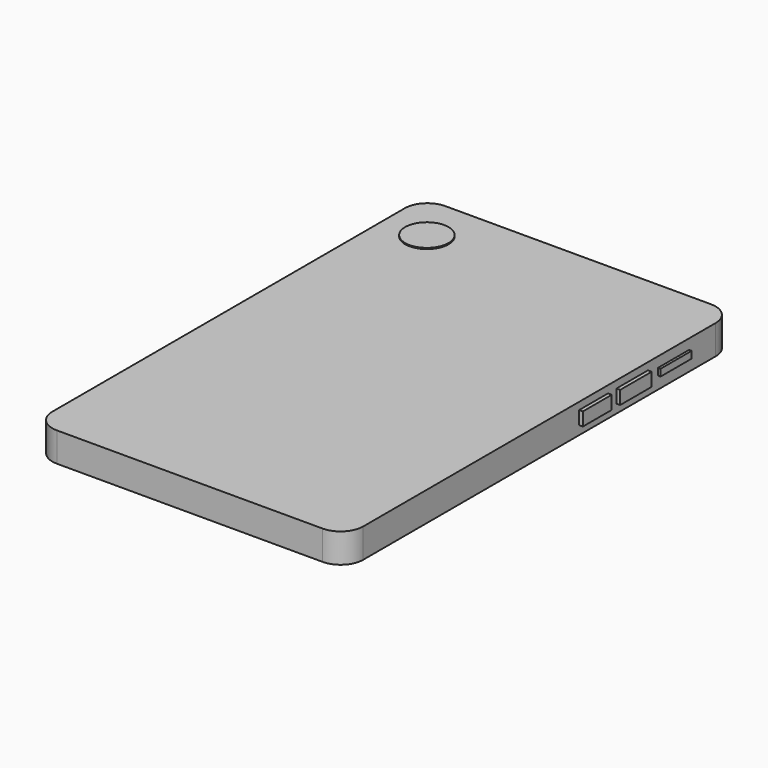
from build123d import *

# Parameters (mm, degrees)
F0_W      = 69.954097271
F0_H      = 109.3032807112
F0_W_2    = 60.0439347327
F0_H_2    = 102.8908193111
F1_DEPTH  = 6.604
F2_R      = 5.08
F3_R      = 5.08
F4_R      = 5.08
F5_R      = 5.08
F7_R      = 4.5439536935
F8_DEPTH  = 5.08
F6_W      = 54.8973716795
F6_H      = 85.8501419425
F10_DEPTH = 0.762
F9_R      = 4.2471129498
F11_DEPTH = 0.508
F12_W     = 11.9684562087
F12_H     = 3.1413002871
F13_DEPTH = 27.432
F14_W     = 9.9000707269
F14_H     = 2.8742142022
F15_DEPTH = 36.068
F16_W     = 8.7329447269
F16_H     = 1.5476101544
F17_DEPTH = 35.56
F18_W     = 8.8735893369
F18_H     = 2.9995241202
F20_DEPTH = 35.814
F19_W     = 8.1237098202
F19_H     = 2.9995241202
F21_DEPTH = 35.814
F22_W     = 7.1957183536
F22_H     = 1.4391434379
F23_DEPTH = 54.61
F24_R     = 4.8808100994
F25_DEPTH = 6.858
F26_W     = 13.9698619023
F26_H     = 2.2988393903
F27_DEPTH = 0.762


with BuildPart() as f1:
    # F0 (on Top) → F1 (new body)
    with BuildSketch(Plane.XY):
        Rectangle(F0_W, F0_H)
        Rectangle(F0_W_2, F0_H_2, mode=Mode.SUBTRACT)
        Rectangle(F0_W_2, F0_H_2)
    extrude(amount=F1_DEPTH)

    # F2
    f2_edges = [f1.edges().sort_by_distance(p)[0] for p in [
        (34.977049, -54.65164, 3.302),
    ]]
    fillet(f2_edges, radius=F2_R)

    # F3
    f3_edges = [f1.edges().sort_by_distance(p)[0] for p in [
        (-34.977049, -54.65164, 3.302),
    ]]
    fillet(f3_edges, radius=F3_R)

    # F4
    f4_edges = [f1.edges().sort_by_distance(p)[0] for p in [
        (34.977049, 54.65164, 3.302),
    ]]
    fillet(f4_edges, radius=F4_R)

    # F5
    f5_edges = [f1.edges().sort_by_distance(p)[0] for p in [
        (-34.977049, 54.65164, 3.302),
    ]]
    fillet(f5_edges, radius=F5_R)

    # F7 (on Top) → F8 (join)
    with BuildSketch(Plane.XY):
        with Locations((0, -49.0902625024)):
            Circle(F7_R)
    extrude(amount=F8_DEPTH)

    # F6 (on Top) → F10 (join)
    with BuildSketch(Plane.XY):
        Rectangle(F6_W, F6_H)
    extrude(amount=-F10_DEPTH)

    # F9 (on Top) → F11 (join)
    with BuildSketch(Plane.XY):
        with Locations((0, -49.5532862842)):
            Circle(F9_R)
    extrude(amount=-F11_DEPTH)

    # F12 (on Right) → F13 (join)
    with BuildSketch(Plane.YZ):
        with Locations((37.5296398997, 3.3532099333)):
            Rectangle(F12_W, F12_H)
    extrude(amount=F13_DEPTH)

    # F14 (on Right) → F15 (join)
    with BuildSketch(Plane.YZ):
        with Locations((37.1129624546, 2.9665301554)):
            Rectangle(F14_W, F14_H)
    extrude(amount=-F15_DEPTH)

    # F16 (on Right) → F17 (join)
    with BuildSketch(Plane.YZ):
        with Locations((37.7242527902, 3.5489225993)):
            Rectangle(F16_W, F16_H)
    extrude(amount=F17_DEPTH)

    # F18 (on Right) → F20 (join)
    with BuildSketch(Plane.YZ):
        with Locations((26.1136516929, 3.4715009388)):
            Rectangle(F18_W, F18_H)
    extrude(amount=F20_DEPTH)

    # F19 (on Right) → F21 (join)
    with BuildSketch(Plane.YZ):
        with Locations((15.2403791435, 3.4715009388)):
            Rectangle(F19_W, F19_H)
    extrude(amount=F21_DEPTH)

    # F22 (on Front) → F23 (join)
    with BuildSketch(Plane.XZ):
        with Locations((-0.2988093765, 3.7136741448)):
            Rectangle(F22_W, F22_H)
    extrude(amount=F23_DEPTH)

    # F24 (on Top) → F25 (join)
    with BuildSketch(Plane.XY):
        with Locations((-25.2635255456, 43.6428338289)):
            Circle(F24_R)
    extrude(amount=F25_DEPTH)

    # F26 (on Top) → F27 (join)
    with BuildSketch(Plane.XY):
        with Locations((-0.0951243564, 47.2962372005)):
            Rectangle(F26_W, F26_H)
    extrude(amount=-F27_DEPTH)


solid = f1.part
